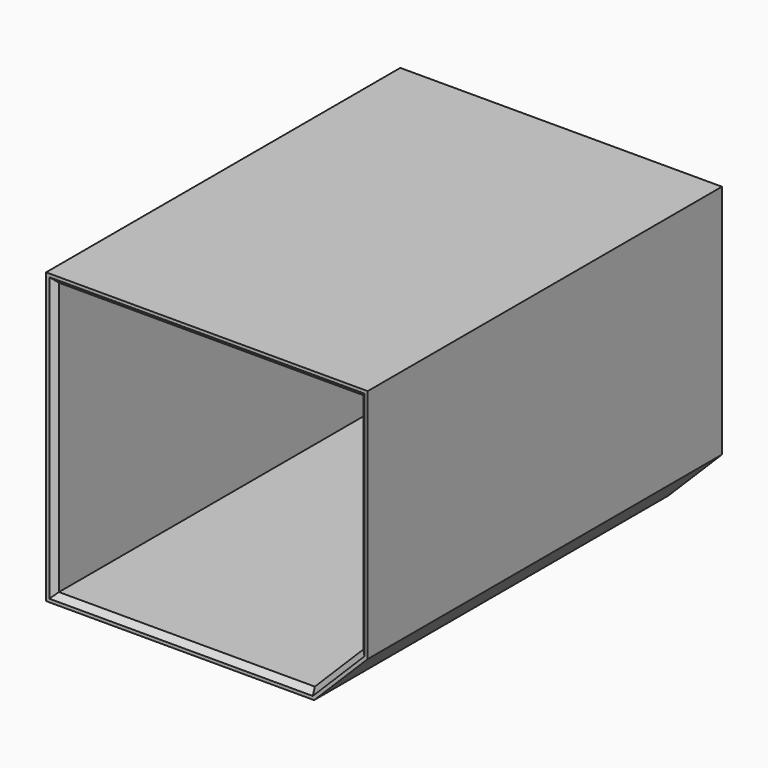
from build123d import *

# Parameters (mm, degrees)
F2_DEPTH = 41.3
F3_T     = -0.8
F4_SIZE  = 0.5


with BuildPart() as f2:
    # F1 (on Front) → F2 (new body)
    with BuildSketch(Plane.XZ):
        Polygon((0, 27), (0, 0), (25, 0), (30, 5), (30, 27), align=None)
    extrude(amount=-F2_DEPTH)

    # F3
    f3_openings = [f2.faces().sort_by_distance(p)[0] for p in [
        (14.791014, 0, 13.685475),
    ]]
    offset(amount=F3_T, openings=f3_openings)

    # F4
    f4_edges = [f2.edges().sort_by_distance(p)[0] for p in [
        (15, 0, 26.2),
        (29.2, 0, 15.765685),
        (26.934315, 0, 3.065685),
        (12.734315, 0, 0.8),
        (0.8, 0, 13.5),
    ]]
    chamfer(f4_edges, length=F4_SIZE)


solid = f2.part
